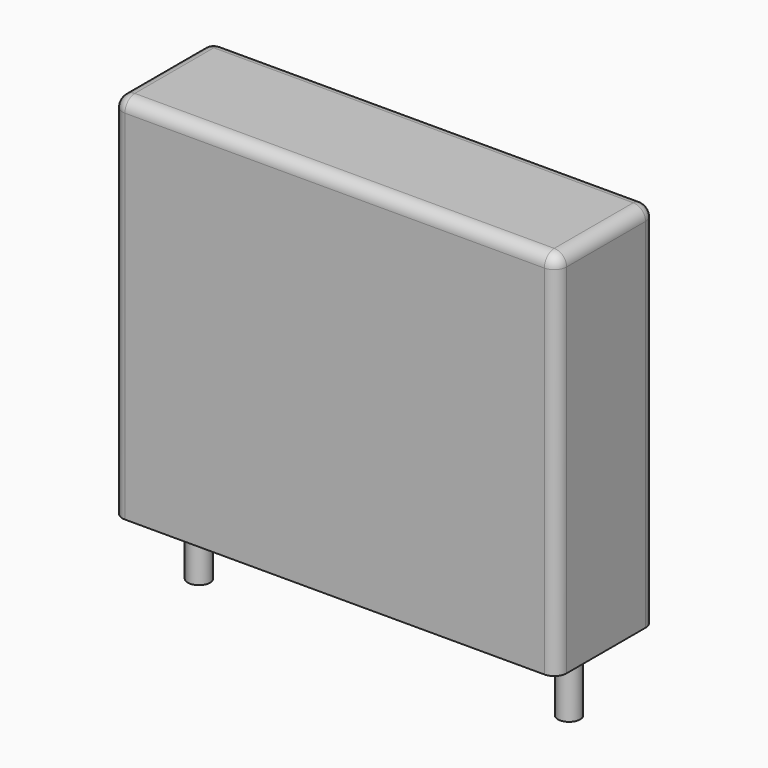
from build123d import *

# Parameters (mm, degrees)
SKETCH_W     = 18
SKETCH_H     = 5
PAD_DEPTH    = 15
FILLET_R     = 0.5
SKETCH001_R  = 0.45
PAD001_DEPTH = 3.2


with BuildPart() as fillet_body:
    # Sketch → Pad (new body)
    with BuildSketch(Plane.XY.offset(0.1)):
        with Locations((7.5, 0)):
            Rectangle(SKETCH_W, SKETCH_H)
    extrude(amount=PAD_DEPTH)

    # Fillet
    fillet_edges = [fillet_body.edges().sort_by_distance(p)[0] for p in [
        (-1.5, 0, 15.1),
        (-1.5, -2.5, 7.6),
        (7.5, -2.5, 15.1),
        (16.5, -2.5, 7.6),
        (16.5, 0, 15.1),
        (16.5, 2.5, 7.6),
        (7.5, 2.5, 15.1),
        (-1.5, 2.5, 7.6),
    ]]
    fillet(fillet_edges, radius=FILLET_R)


with BuildPart() as pad001:
    # Sketch001 → Pad001 (new body)
    with BuildSketch(Plane.XY.offset(0.5)):
        Circle(SKETCH001_R)
        with Locations((15, 0)):
            Circle(SKETCH001_R)
    extrude(amount=-PAD001_DEPTH)


solid = Compound([fillet_body.part, pad001.part])
